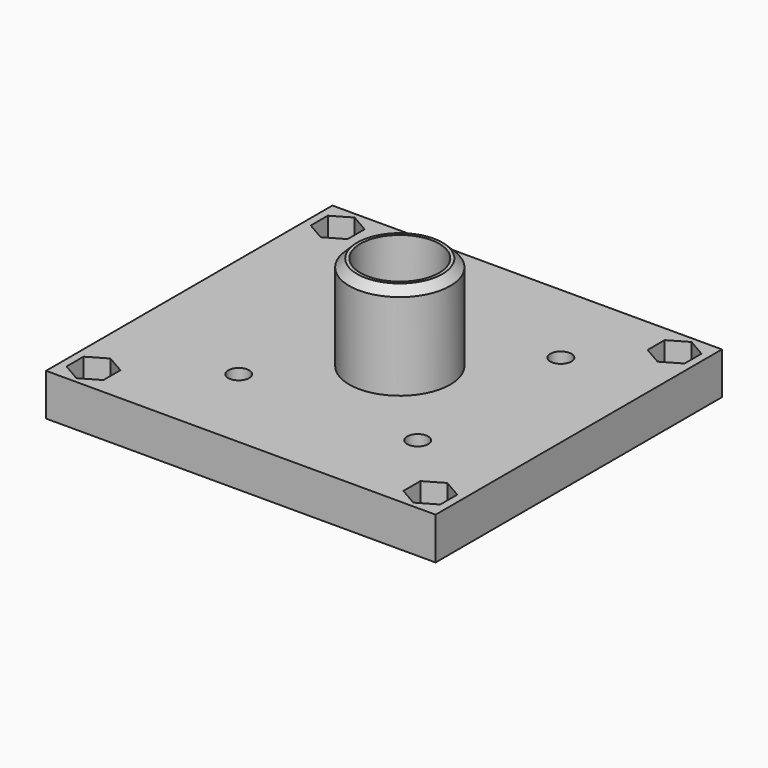
from build123d import *

# Parameters (mm, degrees)
F0_W     = 37
F0_H     = 34
F0_R     = 1
F0_R_2   = 4.8
F1_DEPTH = 4
F0_R_3   = 3.75
F2_DEPTH = 13
F3_SIZE  = 0.75
F0_R_4   = 1.25
F4_DEPTH = 2


with BuildPart() as f1:
    # F0 (on Top) → F1 (new body)
    with BuildSketch(Plane.XY):
        with Locations((-1.5, 0)):
            Rectangle(F0_W, F0_H)
        Polygon((-19.25, -15.510363), (-19.25, -13.489637), (-17.5, -12.479274), (-15.75, -13.489637), (-15.75, -15.510363), (-17.5, -16.520726), align=None, mode=Mode.SUBTRACT)
        with Locations((-8.5, -8.5)):
            Circle(F0_R, mode=Mode.SUBTRACT)
        Polygon((14.5, -16.520726), (12.75, -15.510363), (12.75, -13.489637), (14.5, -12.479274), (16.25, -13.489637), (16.25, -15.510363), align=None, mode=Mode.SUBTRACT)
        with Locations((8.5, -8.5)):
            Circle(F0_R, mode=Mode.SUBTRACT)
        Polygon((-19.25, 15.510363), (-17.5, 16.520726), (-15.75, 15.510363), (-15.75, 13.489637), (-17.5, 12.479274), (-19.25, 13.489637), align=None, mode=Mode.SUBTRACT)
        with Locations((-8.5, 8.5)):
            Circle(F0_R, mode=Mode.SUBTRACT)
        Circle(F0_R_2, mode=Mode.SUBTRACT)
        with Locations((8.5, 8.5)):
            Circle(F0_R, mode=Mode.SUBTRACT)
        Polygon((14.5, 12.479274), (12.75, 13.489637), (12.75, 15.510363), (14.5, 16.520726), (16.25, 15.510363), (16.25, 13.489637), align=None, mode=Mode.SUBTRACT)
    extrude(amount=F1_DEPTH)

    # F0 (on Top) → F2 (join)
    with BuildSketch(Plane.XY):
        Circle(F0_R_2)
        Circle(F0_R_3, mode=Mode.SUBTRACT)
    extrude(amount=F2_DEPTH)

    # F3
    f3_edges = [f1.edges().sort_by_distance(p)[0] for p in [
        (-4.8, 0, 13),
    ]]
    chamfer(f3_edges, length=F3_SIZE)

    # F0 (on Top) → F4 (join)
    with BuildSketch(Plane.XY):
        Polygon((-17.5, -12.479274), (-19.25, -13.489637), (-19.25, -15.510363), (-17.5, -16.520726), (-15.75, -15.510363), (-15.75, -13.489637), align=None)
        with Locations((-17.5, -14.5)):
            Circle(F0_R_4, mode=Mode.SUBTRACT)
        Polygon((12.75, -13.489637), (12.75, -15.510363), (14.5, -16.520726), (16.25, -15.510363), (16.25, -13.489637), (14.5, -12.479274), align=None)
        with Locations((14.5, -14.5)):
            Circle(F0_R_4, mode=Mode.SUBTRACT)
        Polygon((12.75, 15.510363), (12.75, 13.489637), (14.5, 12.479274), (16.25, 13.489637), (16.25, 15.510363), (14.5, 16.520726), align=None)
        with Locations((14.5, 14.5)):
            Circle(F0_R_4, mode=Mode.SUBTRACT)
        Polygon((-15.75, 15.510363), (-17.5, 16.520726), (-19.25, 15.510363), (-19.25, 13.489637), (-17.5, 12.479274), (-15.75, 13.489637), align=None)
        with Locations((-17.5, 14.5)):
            Circle(F0_R_4, mode=Mode.SUBTRACT)
    extrude(amount=F4_DEPTH)


solid = f1.part
